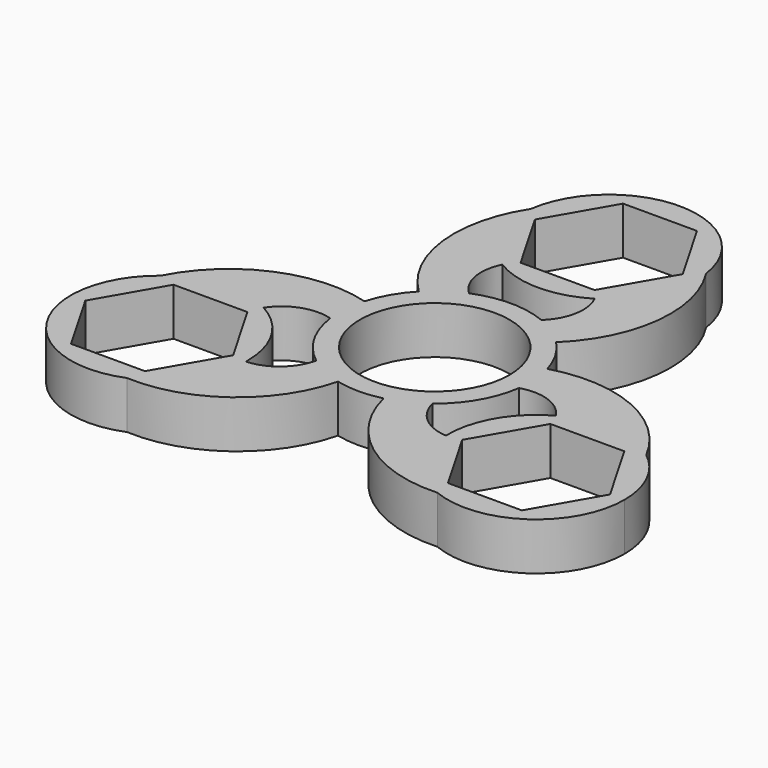
from build123d import *

# Parameters (mm, degrees)
F0_R     = 11
F1_DEPTH = 7
F3_DEPTH = 31


with BuildPart() as f1:
    # F0 (on Top) → F1 (new body)
    with BuildSketch(Plane.XY):
        with BuildLine():
            ThreePointArc((-35.690819, -5.735916), (-38.971143, -22.5), (-22.812859, -28.041198))
            ThreePointArc((-22.812859, -28.041198), (-17.02025, -23.393855), (-14.717093, -16.333573))
            ThreePointArc((-14.717093, -16.333573), (-14.713883, -16.1668), (-14.712813, -16))
            ThreePointArc((-14.712813, -16), (-16.538809, -9.356082), (-21.503836, -4.57859))
            ThreePointArc((-21.503836, -4.57859), (-28.769798, -3.043041), (-35.690819, -5.735916))
        make_face()
        with BuildLine():
            ThreePointArc((-13.875123, -1.865735), (-13.961542, 1.036992), (-13.447237, 3.8951))
            ThreePointArc((-13.447237, 3.8951), (-26.298738, 3.074491), (-35.690819, -5.735916))
            ThreePointArc((-35.690819, -5.735916), (-28.769798, -3.043041), (-21.503836, -4.57859))
            ThreePointArc((-21.503836, -4.57859), (-18.141279, -1.951674), (-13.875123, -1.865735))
        make_face()
        with BuildLine():
            ThreePointArc((-22.812859, -28.041198), (-10.486782, -24.312621), (-3.350363, -13.593199))
            ThreePointArc((-3.350363, -13.593199), (-6.08271, -12.609546), (-8.553336, -11.083341))
            ThreePointArc((-8.553336, -11.083341), (-10.760839, -14.734971), (-14.717093, -16.333573))
            ThreePointArc((-14.717093, -16.333573), (-17.02025, -23.393855), (-22.812859, -28.041198))
        make_face()
        with BuildLine():
            ThreePointArc((13.875123, -1.865735), (13.968746, -0.934955), (14, 0))
            ThreePointArc((14, 0), (13.861121, 1.967063), (13.447237, 3.8951))
            ThreePointArc((13.447237, 3.8951), (12.124356, 7), (10.096874, 9.698099))
            ThreePointArc((10.096874, 9.698099), (7.878832, 11.572554), (5.321787, 12.949076))
            ThreePointArc((5.321787, 12.949076), (0, 14), (-5.321787, 12.949076))
            ThreePointArc((-5.321787, 12.949076), (-7.878832, 11.572554), (-10.096874, 9.698099))
            ThreePointArc((-10.096874, 9.698099), (-12.124356, 7), (-13.447237, 3.8951))
            ThreePointArc((-13.447237, 3.8951), (-13.961542, 1.036992), (-13.875123, -1.865735))
            ThreePointArc((-13.875123, -1.865735), (-12.124356, -7), (-8.553336, -11.083341))
            ThreePointArc((-8.553336, -11.083341), (-6.08271, -12.609546), (-3.350363, -13.593199))
            ThreePointArc((-3.350363, -13.593199), (0, -14), (3.350363, -13.593199))
            ThreePointArc((3.350363, -13.593199), (6.08271, -12.609546), (8.553336, -11.083341))
            ThreePointArc((8.553336, -11.083341), (12.124356, -7), (13.875123, -1.865735))
        make_face()
        Circle(F0_R, mode=Mode.SUBTRACT)
        with BuildLine():
            ThreePointArc((-10.096874, 9.698099), (-7.878832, 11.572554), (-5.321787, 12.949076))
            ThreePointArc((-5.321787, 12.949076), (-7.38044, 16.686646), (-6.786742, 20.912163))
            ThreePointArc((-6.786742, 20.912163), (-11.749548, 26.436896), (-12.87796, 33.777114))
            ThreePointArc((-12.87796, 33.777114), (-15.811956, 21.23813), (-10.096874, 9.698099))
        make_face()
        with BuildLine():
            ThreePointArc((13, 32), (12.969454, 32.89065), (12.87796, 33.777114))
            ThreePointArc((12.87796, 33.777114), (0, 45), (-12.87796, 33.777114))
            ThreePointArc((-12.87796, 33.777114), (-11.749548, 26.436896), (-6.786742, 20.912163))
            ThreePointArc((-6.786742, 20.912163), (0, 19), (6.786742, 20.912163))
            ThreePointArc((6.786742, 20.912163), (11.340804, 25.644988), (13, 32))
        make_face()
        with BuildLine():
            ThreePointArc((5.321787, 12.949076), (7.878832, 11.572554), (10.096874, 9.698099))
            ThreePointArc((10.096874, 9.698099), (15.811956, 21.23813), (12.87796, 33.777114))
            ThreePointArc((12.87796, 33.777114), (12.969454, 32.89065), (13, 32))
            ThreePointArc((13, 32), (11.340804, 25.644988), (6.786742, 20.912163))
            ThreePointArc((6.786742, 20.912163), (7.38044, 16.686646), (5.321787, 12.949076))
        make_face()
        with BuildLine():
            ThreePointArc((13.447237, 3.8951), (13.861121, 1.967063), (14, 0))
            ThreePointArc((14, 0), (13.968746, -0.934955), (13.875123, -1.865735))
            ThreePointArc((13.875123, -1.865735), (18.141279, -1.951674), (21.503836, -4.57859))
            ThreePointArc((21.503836, -4.57859), (28.769798, -3.043041), (35.690819, -5.735916))
            ThreePointArc((35.690819, -5.735916), (26.298738, 3.074491), (13.447237, 3.8951))
        make_face()
        with BuildLine():
            ThreePointArc((14.717093, -16.333573), (10.760839, -14.734971), (8.553336, -11.083341))
            ThreePointArc((8.553336, -11.083341), (6.08271, -12.609546), (3.350363, -13.593199))
            ThreePointArc((3.350363, -13.593199), (10.486782, -24.312621), (22.812859, -28.041198))
            ThreePointArc((22.812859, -28.041198), (17.02025, -23.393855), (14.717093, -16.333573))
        make_face()
        with BuildLine():
            ThreePointArc((40.712813, -16), (39.390015, -10.286598), (35.690819, -5.735916))
            ThreePointArc((35.690819, -5.735916), (28.769798, -3.043041), (21.503836, -4.57859))
            ThreePointArc((21.503836, -4.57859), (16.454483, -9.5), (14.717093, -16.333573))
            ThreePointArc((14.717093, -16.333573), (17.02025, -23.393855), (22.812859, -28.041198))
            ThreePointArc((22.812859, -28.041198), (34.968866, -26.786552), (40.712813, -16))
        make_face()
    extrude(amount=F1_DEPTH)

    # F2 (on face) → F3 (cut)
    with BuildSketch(Plane.XY.offset(7)):
        Polygon((-38.584318, -16), (-33.148566, -25.415), (-22.27706, -25.415), (-16.841307, -16), (-22.27706, -6.585), (-33.148566, -6.585), align=None)
        Polygon((33.148566, -25.415), (38.584318, -16), (33.148566, -6.585), (22.27706, -6.585), (16.841307, -16), (22.27706, -25.415), align=None)
        Polygon((5.435753, 41.415), (-5.435753, 41.415), (-10.871506, 32), (-5.435753, 22.585), (5.435753, 22.585), (10.871506, 32), align=None)
    extrude(amount=-F3_DEPTH, mode=Mode.SUBTRACT)


solid = f1.part
